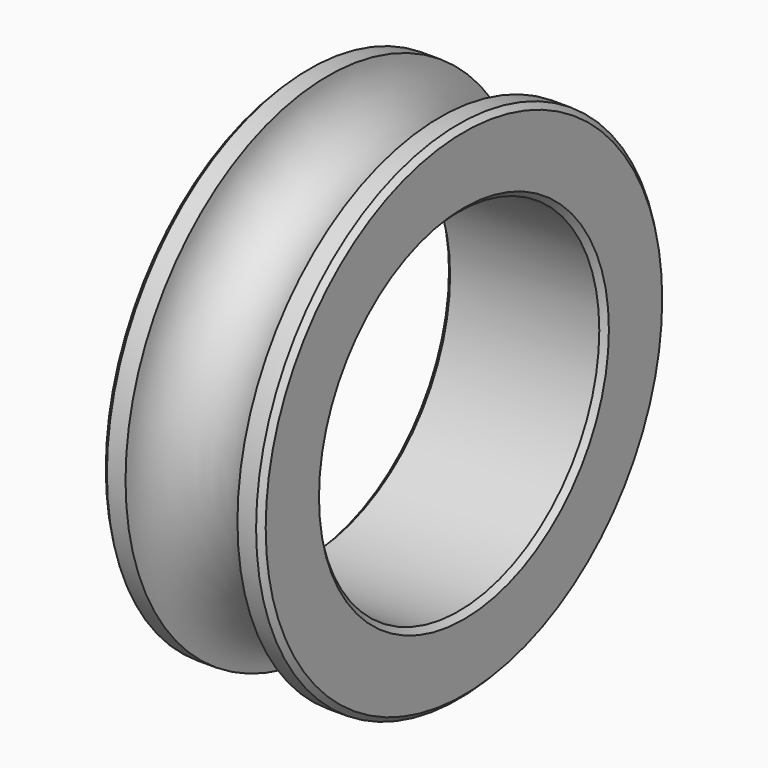
from build123d import *

# Parameters (mm, degrees)
CHAMFER_SIZE = 0.2


with BuildPart() as part:
    # Sketch → Revolution (revolve)
    with BuildSketch(Plane.XY):
        with BuildLine():
            Line((3, 6.6), (3, 9.5))
            Line((2.1, 9.5), (3, 9.5))
            ThreePointArc((-2.1, 9.5), (0, 7.4), (2.1, 9.5))
            Line((-3, 9.5), (-2.1, 9.5))
            Line((-3, 9.5), (-3, 6.6))
            Line((-3, 6.6), (3, 6.6))
        make_face()
    revolve(axis=Axis((0, 0, 0), (1, 0, 0)))

    # Chamfer
    chamfer_edges = [part.edges().sort_by_distance(p)[0] for p in [
        (-3, -6.6, 0),
        (-3, -9.5, 0),
        (3, -9.5, 0),
        (3, -6.6, 0),
    ]]
    chamfer(chamfer_edges, length=CHAMFER_SIZE)


solid = part.part
